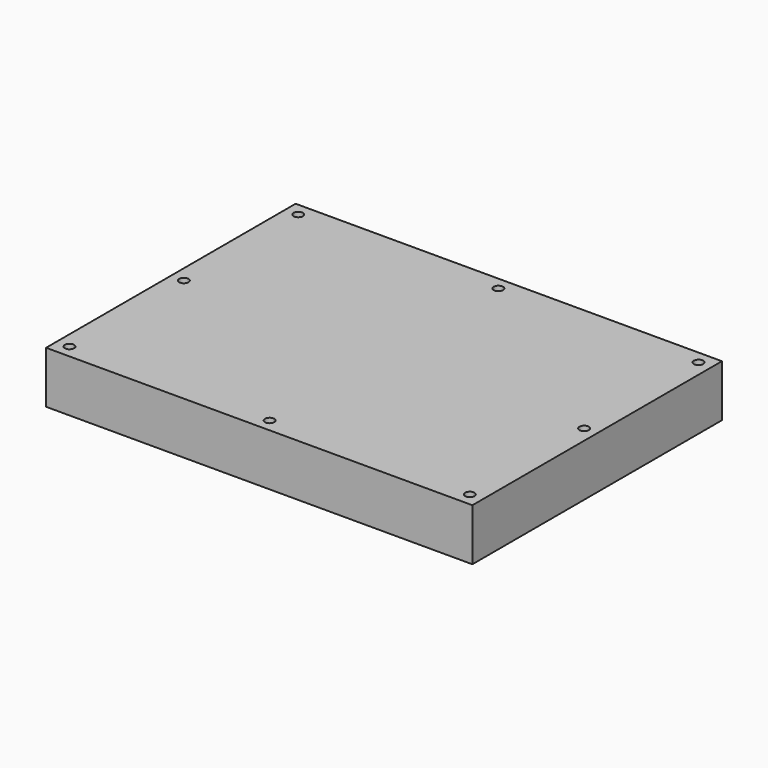
from build123d import *

# Parameters (mm, degrees)
F0_W     = 12.7
F0_H     = 127
F0_R     = 2.286
F0_W_2   = 182.88
F0_H_2   = 12.7
F1_DEPTH = 25.4


with BuildPart() as f1:
    # F0 (on Top) → F1 (new body)
    with BuildSketch(Plane.XY):
        with Locations((-93.210633, 0.748602)):
            Rectangle(F0_W, F0_H)
        with Locations((-93.210633, 0.748602)):
            Circle(F0_R, mode=Mode.SUBTRACT)
        Polygon((96.014639, 76.948602), (-86.860633, 76.948602), (-86.860633, 64.248602), (96.019367, 64.248602), align=None)
        with Locations((4.579367, 70.598602)):
            Circle(F0_R, mode=Mode.SUBTRACT)
        Polygon((108.719367, 76.948602), (96.014639, 76.948602), (96.019367, 64.248602), (96.019367, -62.751398), (108.719367, -62.751398), align=None)
        with Locations((102.369367, 0.748602)):
            Circle(F0_R, mode=Mode.SUBTRACT)
        with Locations((102.369367, 70.598602)):
            Circle(F0_R, mode=Mode.SUBTRACT)
        with Locations((4.579367, 0.748602)):
            Rectangle(F0_W_2, F0_H)
        with BuildLine():
            Line((-95.496633, -69.101398), (-99.560633, -69.101398))
            Line((-99.560633, -69.101398), (-99.560633, -75.451398))
            Line((-99.560633, -75.451398), (-86.860633, -75.451398))
            Line((-86.860633, -75.451398), (-86.887019, -69.101398))
            Line((-86.887019, -69.101398), (-90.924633, -69.101398))
            ThreePointArc((-90.924633, -69.101398), (-93.210633, -71.387398), (-95.496633, -69.101398))
        make_face()
        with BuildLine():
            Line((-86.860633, -62.751398), (-99.560633, -62.751398))
            Line((-99.560633, -62.751398), (-99.560633, -69.101398))
            Line((-99.560633, -69.101398), (-95.496633, -69.101398))
            ThreePointArc((-95.496633, -69.101398), (-93.210633, -66.815398), (-90.924633, -69.101398))
            Line((-90.924633, -69.101398), (-86.887019, -69.101398))
            Line((-86.887019, -69.101398), (-86.860633, -75.451398))
            Line((-86.860633, -75.451398), (96.019367, -75.451398))
            Line((96.019367, -75.451398), (96.019367, -62.751398))
            Line((96.019367, -62.751398), (-86.860633, -62.751398))
        make_face()
        with Locations((4.579367, -69.101398)):
            Circle(F0_R, mode=Mode.SUBTRACT)
        with Locations((-93.210633, 70.598602)):
            Rectangle(F0_W, F0_H_2)
        with Locations((-93.210633, 70.598602)):
            Circle(F0_R, mode=Mode.SUBTRACT)
        with Locations((102.369367, -69.101398)):
            Rectangle(F0_W, F0_H_2)
        with Locations((102.369367, -69.101398)):
            Circle(F0_R, mode=Mode.SUBTRACT)
    extrude(amount=F1_DEPTH)


solid = f1.part
